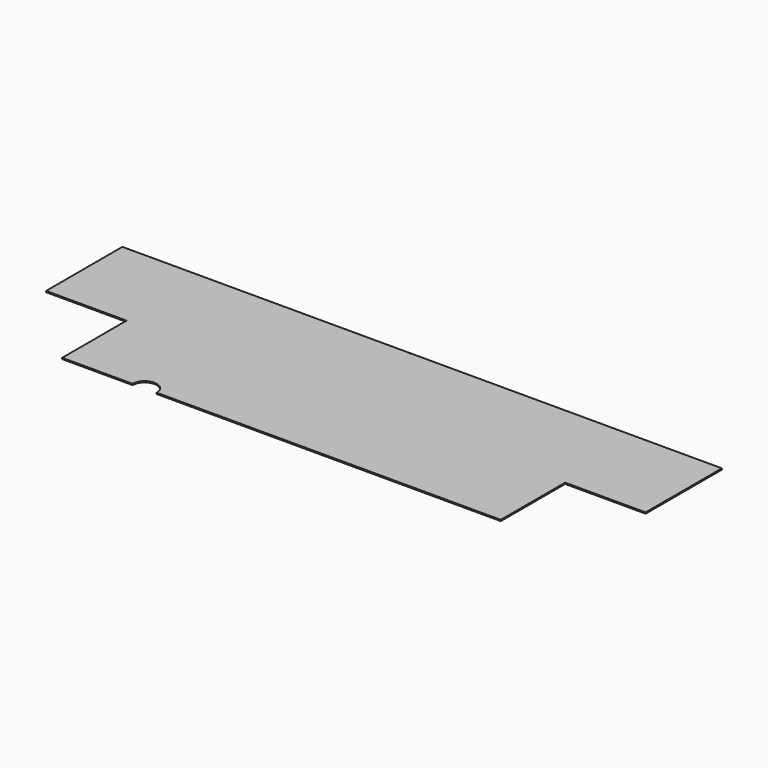
from build123d import *

# Parameters (mm, degrees)
F1_DEPTH = 3
F2_DEPTH = 25
F3_DEPTH = 25


with BuildPart() as f1:
    # F0 (on Top) → F1 (new body)
    with BuildSketch(Plane.XY):
        with BuildLine():
            Line((-480.661231, 172.248819), (-755.661231, 172.248819))
            Line((-755.661231, 172.248819), (-755.661231, -64.751181))
            Line((-755.661231, -64.751181), (-555.661231, -64.751181))
            Line((-555.661231, -64.751181), (-555.661231, -264.751181))
            Line((-555.661231, -264.751181), (-380.661231, -264.751181))
            ThreePointArc((-380.661231, -264.751181), (-350.661231, -234.751181), (-320.661231, -264.751181))
            Line((-320.661231, -264.751181), (534.338769, -264.751181))
            Line((534.338769, -264.751181), (534.338769, -64.751181))
            Line((534.338769, -64.751181), (734.338769, -64.751181))
            Line((734.338769, -64.751181), (734.338769, 172.248819))
            Line((734.338769, 172.248819), (25.338769, 172.248819))
            Line((25.338769, 172.248819), (-38.161231, 172.248819))
            Line((-38.161231, 172.248819), (-402.510524, 172.248819))
            Line((-402.510524, 172.248819), (-417.161231, 172.248819))
            Line((-417.161231, 172.248819), (-480.661231, 172.248819))
        make_face()
        with BuildLine():
            ThreePointArc((-480.161231, 171.248819), (-481.014785, 170.895266), (-480.661231, 171.748819))
            ThreePointArc((-480.661231, 171.748819), (-480.307678, 171.602373), (-480.161231, 171.248819))
        make_face(mode=Mode.SUBTRACT)
        with BuildLine():
            ThreePointArc((-417.161231, 170.748819), (-417.661231, 171.248819), (-417.161231, 171.748819))
            ThreePointArc((-417.161231, 171.748819), (-416.807678, 171.602373), (-416.661231, 171.248819))
            ThreePointArc((-416.661231, 171.248819), (-416.807678, 170.895266), (-417.161231, 170.748819))
        make_face(mode=Mode.SUBTRACT)
        with BuildLine():
            ThreePointArc((-38.161231, 170.748819), (-38.661231, 171.248819), (-38.161231, 171.748819))
            ThreePointArc((-38.161231, 171.748819), (-37.807678, 171.602373), (-37.661231, 171.248819))
            ThreePointArc((-37.661231, 171.248819), (-37.807678, 170.895266), (-38.161231, 170.748819))
        make_face(mode=Mode.SUBTRACT)
        with BuildLine():
            ThreePointArc((25.338769, 170.748819), (24.838769, 171.248819), (25.338769, 171.748819))
            ThreePointArc((25.338769, 171.748819), (25.692322, 171.602373), (25.838769, 171.248819))
            ThreePointArc((25.838769, 171.248819), (25.692322, 170.895266), (25.338769, 170.748819))
        make_face(mode=Mode.SUBTRACT)
    extrude(amount=F1_DEPTH)

    # F0 (on Top) → F2 (cut)
    with BuildSketch(Plane.XY):
        with BuildLine():
            ThreePointArc((-480.161231, 171.248819), (-480.307678, 171.602373), (-480.661231, 171.748819))
            ThreePointArc((-480.661231, 171.748819), (-481.014785, 170.895266), (-480.161231, 171.248819))
        make_face()
        with BuildLine():
            Line((-480.661231, 172.248819), (-755.661231, 172.248819))
            Line((-755.661231, 172.248819), (-755.661231, -64.751181))
            Line((-755.661231, -64.751181), (-555.661231, -64.751181))
            Line((-555.661231, -64.751181), (-555.661231, -264.751181))
            Line((-555.661231, -264.751181), (-380.661231, -264.751181))
            ThreePointArc((-380.661231, -264.751181), (-350.661231, -234.751181), (-320.661231, -264.751181))
            Line((-320.661231, -264.751181), (534.338769, -264.751181))
            Line((534.338769, -264.751181), (534.338769, -64.751181))
            Line((534.338769, -64.751181), (734.338769, -64.751181))
            Line((734.338769, -64.751181), (734.338769, 172.248819))
            Line((734.338769, 172.248819), (25.338769, 172.248819))
            Line((25.338769, 172.248819), (-38.161231, 172.248819))
            Line((-38.161231, 172.248819), (-402.510524, 172.248819))
            Line((-402.510524, 172.248819), (-417.161231, 172.248819))
            Line((-417.161231, 172.248819), (-480.661231, 172.248819))
        make_face()
        with BuildLine():
            ThreePointArc((-480.161231, 171.248819), (-481.014785, 170.895266), (-480.661231, 171.748819))
            ThreePointArc((-480.661231, 171.748819), (-480.307678, 171.602373), (-480.161231, 171.248819))
        make_face(mode=Mode.SUBTRACT)
        with BuildLine():
            ThreePointArc((-417.161231, 170.748819), (-417.661231, 171.248819), (-417.161231, 171.748819))
            ThreePointArc((-417.161231, 171.748819), (-416.807678, 171.602373), (-416.661231, 171.248819))
            ThreePointArc((-416.661231, 171.248819), (-416.807678, 170.895266), (-417.161231, 170.748819))
        make_face(mode=Mode.SUBTRACT)
        with BuildLine():
            ThreePointArc((-38.161231, 170.748819), (-38.661231, 171.248819), (-38.161231, 171.748819))
            ThreePointArc((-38.161231, 171.748819), (-37.807678, 171.602373), (-37.661231, 171.248819))
            ThreePointArc((-37.661231, 171.248819), (-37.807678, 170.895266), (-38.161231, 170.748819))
        make_face(mode=Mode.SUBTRACT)
        with BuildLine():
            ThreePointArc((25.338769, 170.748819), (24.838769, 171.248819), (25.338769, 171.748819))
            ThreePointArc((25.338769, 171.748819), (25.692322, 171.602373), (25.838769, 171.248819))
            ThreePointArc((25.838769, 171.248819), (25.692322, 170.895266), (25.338769, 170.748819))
        make_face(mode=Mode.SUBTRACT)
        with BuildLine():
            ThreePointArc((-320.661231, -264.751181), (-350.661231, -234.751181), (-380.661231, -264.751181))
            Line((-380.661231, -264.751181), (-320.661231, -264.751181))
        make_face()
    extrude(amount=-F2_DEPTH, mode=Mode.SUBTRACT)

    # F0 (on Top) → F3 (cut)
    with BuildSketch(Plane.XY):
        with BuildLine():
            ThreePointArc((-480.161231, 171.248819), (-480.307678, 171.602373), (-480.661231, 171.748819))
            ThreePointArc((-480.661231, 171.748819), (-481.014785, 170.895266), (-480.161231, 171.248819))
        make_face()
        with BuildLine():
            Line((-480.661231, 172.248819), (-755.661231, 172.248819))
            Line((-755.661231, 172.248819), (-755.661231, -64.751181))
            Line((-755.661231, -64.751181), (-555.661231, -64.751181))
            Line((-555.661231, -64.751181), (-555.661231, -264.751181))
            Line((-555.661231, -264.751181), (-380.661231, -264.751181))
            ThreePointArc((-380.661231, -264.751181), (-350.661231, -234.751181), (-320.661231, -264.751181))
            Line((-320.661231, -264.751181), (534.338769, -264.751181))
            Line((534.338769, -264.751181), (534.338769, -64.751181))
            Line((534.338769, -64.751181), (734.338769, -64.751181))
            Line((734.338769, -64.751181), (734.338769, 172.248819))
            Line((734.338769, 172.248819), (25.338769, 172.248819))
            Line((25.338769, 172.248819), (-38.161231, 172.248819))
            Line((-38.161231, 172.248819), (-402.510524, 172.248819))
            Line((-402.510524, 172.248819), (-417.161231, 172.248819))
            Line((-417.161231, 172.248819), (-480.661231, 172.248819))
        make_face()
        with BuildLine():
            ThreePointArc((-480.161231, 171.248819), (-481.014785, 170.895266), (-480.661231, 171.748819))
            ThreePointArc((-480.661231, 171.748819), (-480.307678, 171.602373), (-480.161231, 171.248819))
        make_face(mode=Mode.SUBTRACT)
        with BuildLine():
            ThreePointArc((-417.161231, 170.748819), (-417.661231, 171.248819), (-417.161231, 171.748819))
            ThreePointArc((-417.161231, 171.748819), (-416.807678, 171.602373), (-416.661231, 171.248819))
            ThreePointArc((-416.661231, 171.248819), (-416.807678, 170.895266), (-417.161231, 170.748819))
        make_face(mode=Mode.SUBTRACT)
        with BuildLine():
            ThreePointArc((-38.161231, 170.748819), (-38.661231, 171.248819), (-38.161231, 171.748819))
            ThreePointArc((-38.161231, 171.748819), (-37.807678, 171.602373), (-37.661231, 171.248819))
            ThreePointArc((-37.661231, 171.248819), (-37.807678, 170.895266), (-38.161231, 170.748819))
        make_face(mode=Mode.SUBTRACT)
        with BuildLine():
            ThreePointArc((25.338769, 170.748819), (24.838769, 171.248819), (25.338769, 171.748819))
            ThreePointArc((25.338769, 171.748819), (25.692322, 171.602373), (25.838769, 171.248819))
            ThreePointArc((25.838769, 171.248819), (25.692322, 170.895266), (25.338769, 170.748819))
        make_face(mode=Mode.SUBTRACT)
        with BuildLine():
            ThreePointArc((-320.661231, -264.751181), (-350.661231, -234.751181), (-380.661231, -264.751181))
            Line((-380.661231, -264.751181), (-320.661231, -264.751181))
        make_face()
    extrude(amount=-F3_DEPTH, mode=Mode.SUBTRACT)


solid = f1.part
